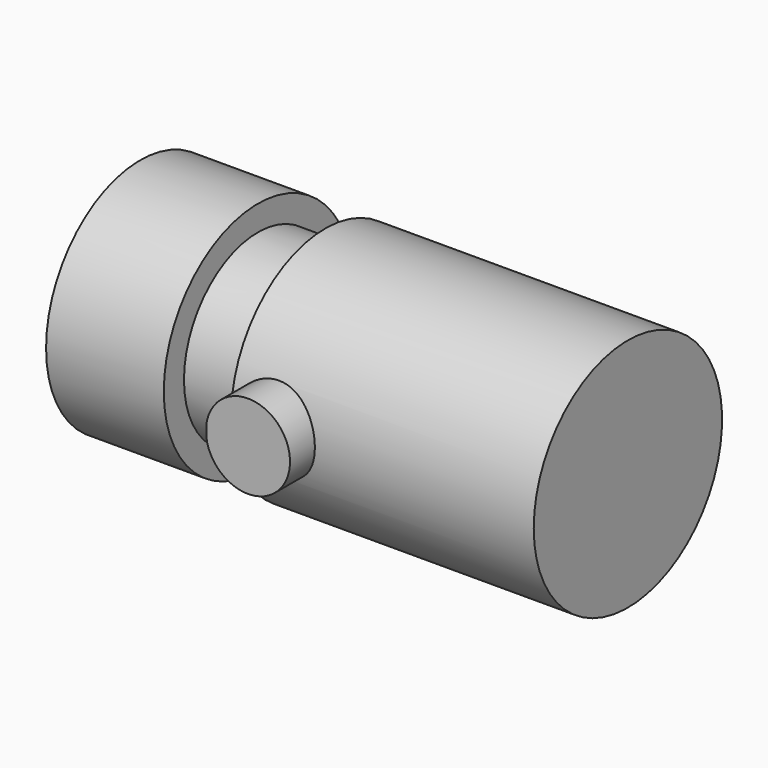
from build123d import *

# Parameters (mm, degrees)
F0_R     = 2.5
F1_DEPTH = 5
F2_W     = 0.1429862286
F2_H     = 0.6
F3_DEPTH = 25
F4_R     = 7
F5_DEPTH = 18
F6_R     = 5.5
F7_DEPTH = 4
F8_R     = 7
F9_DEPTH = 7


with BuildPart() as f1:
    # F0 (on Front) → F1 (new body)
    with BuildSketch(Plane.XZ):
        Circle(F0_R)
    extrude(amount=F1_DEPTH)

    # F2 (on face) → F3 (cut)
    with BuildSketch(Plane.XZ.offset(5)):
        with Locations((-2.5534278435, 0)):
            Rectangle(F2_W, F2_H)
    extrude(amount=-F3_DEPTH, mode=Mode.SUBTRACT)

    # F4 (on face) → F5 (join)
    with BuildSketch(Plane(origin=(-2.4819347292, 0, 0), x_dir=(0, -1, 0), z_dir=(-1, 0, 0))):
        with Locations((-3.8429031865, 0)):
            Circle(F4_R)
    extrude(amount=-F5_DEPTH)

    # F6 (on face) → F7 (join)
    with BuildSketch(Plane(origin=(-2.4819347292, 0, 0), x_dir=(0, -1, 0), z_dir=(-1, 0, 0))):
        with Locations((-3.8429031865, 0)):
            Circle(F6_R)
    extrude(amount=F7_DEPTH)

    # F8 (on face) → F9 (join)
    with BuildSketch(Plane(origin=(-6.4819347292, 0, 0), x_dir=(0, -1, 0), z_dir=(-1, 0, 0))):
        with Locations((-3.8429031865, 0)):
            Circle(F8_R)
    extrude(amount=F9_DEPTH)


solid = f1.part
